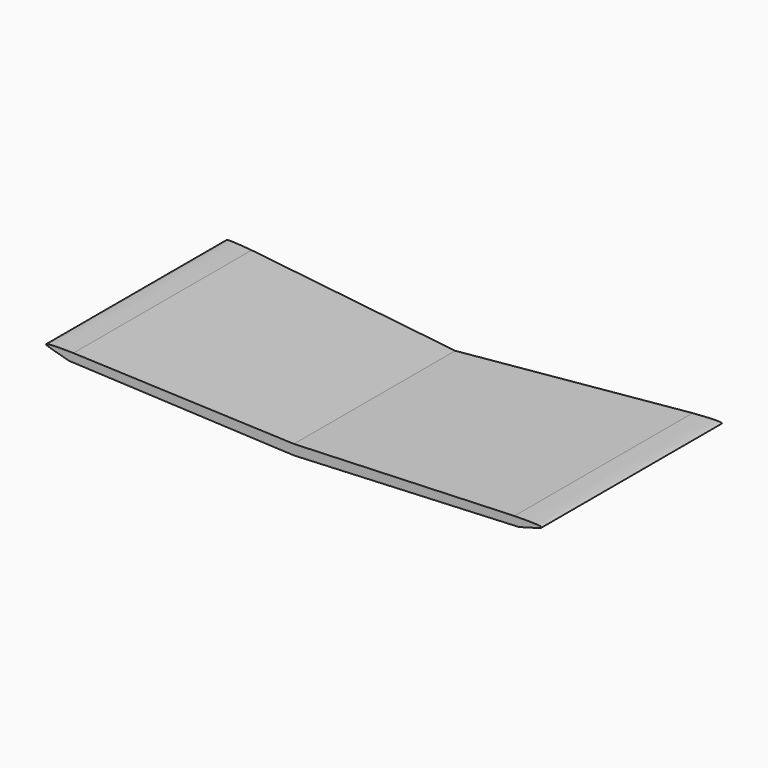
from build123d import *

# Parameters (mm, degrees)
F1_DEPTH = 127
F3_DEPTH = 203.2


with BuildPart() as f1:
    # F0 (on Front) → F1 (new body)
    with BuildSketch(Plane.XZ):
        with BuildLine():
            Line((-126.8714908583, 5.71181297), (0, 0))
            Line((0, 0), (126.8714908583, 5.71181297))
            add(Edge.make_bspline(
                [(126.8714908583, 5.71181297), (131.7700180401, 7.3261107818), (148.343354527, 10.6383260951), (130.2819001647, 10.4699817676), (124.2953687906, 10.3716664016)],
                knots=[0, 0, 0, 0, 0.4828204634, 1, 1, 1, 1], degree=3))
            Line((124.2953687906, 10.3716664016), (0, 5.71181297))
            Line((0, 5.71181297), (-124.2953687906, 10.3716664016))
            add(Edge.make_bspline(
                [(-126.8714908583, 5.71181297), (-131.7700180401, 7.3261107818), (-148.343354527, 10.6383260951), (-130.2819001647, 10.4699817676), (-124.2953687906, 10.3716664016)],
                knots=[0, 0, 0, 0, 0.4828204634, 1, 1, 1, 1], degree=3))
        make_face()
    extrude(amount=F1_DEPTH)

    # F2 (on Top) → F3 (cut)
    with BuildSketch(Plane.XY):
        Polygon((139.0637980759, 0), (-139.0637980759, 0), (0, -13.3172844347), align=None)
    extrude(amount=F3_DEPTH, mode=Mode.SUBTRACT)


solid = f1.part
